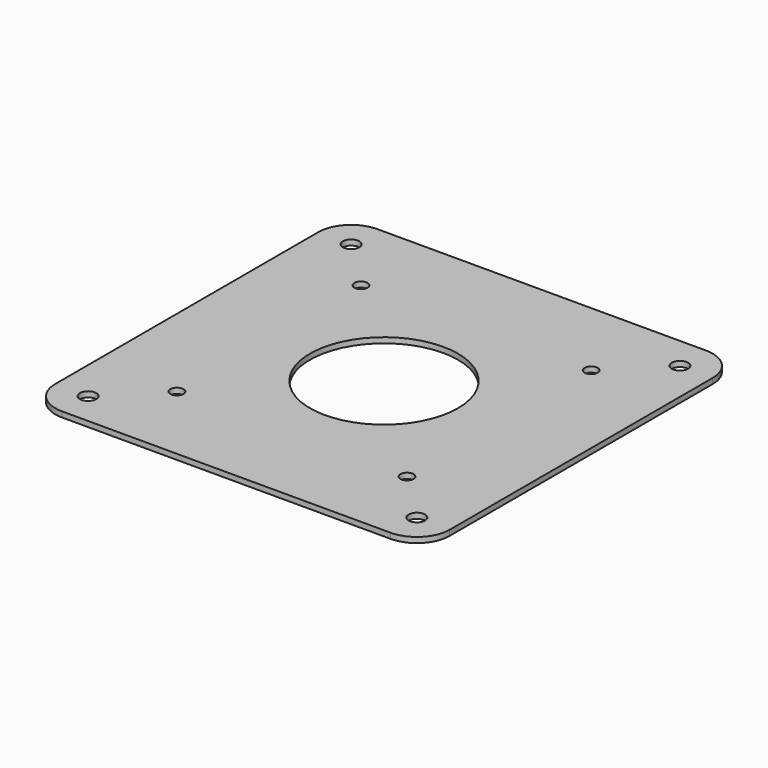
from build123d import *

# Parameters (mm, degrees)
F0_R     = 5
F0_R_2   = 4
F0_R_3   = 45
F1_DEPTH = 3.3


with BuildPart() as f1:
    # F0 (on Top) → F1 (new body)
    with BuildSketch(Plane.XY):
        with BuildLine():
            Line((170, 190), (-30, 190))
            ThreePointArc((-30, 190), (-44.142136, 184.142136), (-50, 170))
            Line((-50, 170), (-50, -30))
            ThreePointArc((-50, -30), (-44.142136, -44.142136), (-30, -50))
            Line((-30, -50), (170, -50))
            ThreePointArc((170, -50), (184.142136, -44.142136), (190, -30))
            Line((190, -30), (190, 170))
            ThreePointArc((190, 170), (184.142136, 184.142136), (170, 190))
        make_face()
        with Locations((-30, -30)):
            Circle(F0_R, mode=Mode.SUBTRACT)
        Circle(F0_R_2, mode=Mode.SUBTRACT)
        with Locations((170, -30)):
            Circle(F0_R, mode=Mode.SUBTRACT)
        with Locations((140, 0)):
            Circle(F0_R_2, mode=Mode.SUBTRACT)
        with Locations((0, 140)):
            Circle(F0_R_2, mode=Mode.SUBTRACT)
        with Locations((-30, 170)):
            Circle(F0_R, mode=Mode.SUBTRACT)
        with Locations((70, 70)):
            Circle(F0_R_3, mode=Mode.SUBTRACT)
        with Locations((140, 140)):
            Circle(F0_R_2, mode=Mode.SUBTRACT)
        with Locations((170, 170)):
            Circle(F0_R, mode=Mode.SUBTRACT)
    extrude(amount=F1_DEPTH)


solid = f1.part
